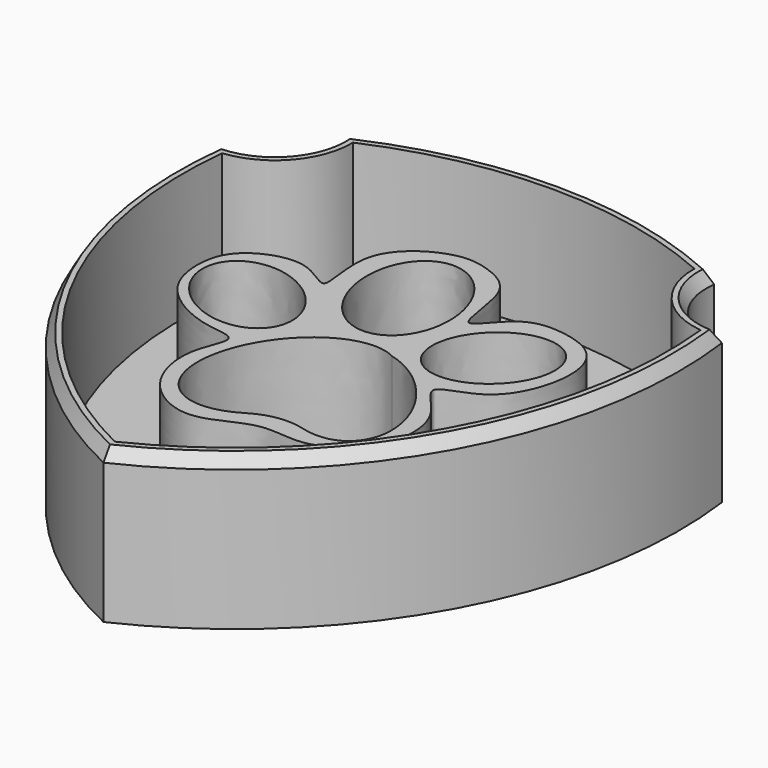
from build123d import *

# Parameters (mm, degrees)
F1_DEPTH = 2
F3_DEPTH = 12
F6_DEPTH = 9
F7_DEPTH = 12.001
F8_SIZE2 = 1
F8_SIZE  = 0.5773502692


with BuildPart() as f1:
    # F0 (on Top) → F1 (new body)
    with BuildSketch(Plane.XY):
        with BuildLine():
            ThreePointArc((14.44472, 19.9530012906), (0, 23.1553551694), (-14.44472, 19.9530012906))
            ThreePointArc((-14.44472, 19.9530012906), (-15.6833903413, 15.8391726591), (-19.6531433612, 14.1963241622))
            ThreePointArc((-19.6531433612, 14.1963241622), (-15.6986584186, -7.0290063642), (0, -21.8514464796))
            ThreePointArc((0, -21.8514464796), (15.6986584186, -7.0290063642), (19.6531433612, 14.1963241622))
            ThreePointArc((19.6531433612, 14.1963241622), (15.6833903413, 15.8391726591), (14.44472, 19.9530012906))
        make_face()
    extrude(amount=F1_DEPTH)

    # F2 (on Top) → F3 (join)
    with BuildSketch(Plane.XY):
        with BuildLine():
            ThreePointArc((14.44472, 19.9530012906), (0, 23.1553551694), (-14.44472, 19.9530012906))
            ThreePointArc((-14.44472, 19.9530012906), (-15.6833903413, 15.8391726591), (-19.6531433612, 14.1963241622))
            ThreePointArc((-19.6531433612, 14.1963241622), (-15.6986584186, -7.0290063642), (0, -21.8514464796))
            ThreePointArc((0, -21.8514464796), (15.6986584186, -7.0290063642), (19.6531433612, 14.1963241622))
            ThreePointArc((19.6531433612, 14.1963241622), (15.6833903413, 15.8391726591), (14.44472, 19.9530012906))
        make_face()
        with BuildLine():
            ThreePointArc((-18.7617020616, 13.223861214), (-14.8850578972, 15.2319371646), (-13.3895138752, 19.3336547414))
            ThreePointArc((-13.3895138752, 19.3336547414), (0, 22.1553551694), (13.3895138752, 19.3336547414))
            ThreePointArc((13.3895138752, 19.3336547414), (14.8850578972, 15.2319371646), (18.7617020616, 13.223861214))
            ThreePointArc((18.7617020616, 13.223861214), (14.7308182001, -6.7140542286), (0, -20.7415804559))
            ThreePointArc((0, -20.7415804559), (-14.7308182001, -6.7140542286), (-18.7617020616, 13.223861214))
        make_face(mode=Mode.SUBTRACT)
    extrude(amount=F3_DEPTH)

    # F5 (on Top) → F6 (join)
    with BuildSketch(Plane.XY):
        with BuildLine():
            add(Edge.make_bspline(
                [(-6.7115966231, 8.1566404551), (-6.9835841304, 7.9270017503), (-9.1275938931, 10.1107655472), (-13.5372207028, 8.5079423879), (-14.5506186802, 5.6470626632), (-13.89810107, 1.6100360147), (-9.3829281793, -0.8860884885), (-5.8754325197, -0.7095108275), (-7.9507006898, -4.0048680625), (-6.8872768223, -8.8092839367), (-2.8823406527, -11.0773918212), (-0.0825531241, -9.9589842361), (2.4233480331, -8.7150787457), (5.8288621164, -9.6831674329), (10.0097546142, -6.6989306151), (10.176976301, -1.3228389012), (5.8954222171, 1.712343473), (11.2409949396, 2.2736279502), (13.1542089804, 7.9042583853), (11.9337579017, 11.303490127), (8.8330621471, 12.3470063399), (5.507933066, 12.2636345965), (2.9501346129, 7.8230945562), (3.0445763313, 14.409749348), (0.0376081351, 15.9673688295), (-2.8824234452, 16.5448510217), (-8.0125455416, 13.3806396334), (-6.3530295656, 8.4593781634), (-6.7115966231, 8.1566404551)],
                knots=[0, 0, 0, 0, 0.0323476454, 0.074100405, 0.1079105993, 0.1469346095, 0.1925335002, 0.2239559671, 0.2573208659, 0.3015220511, 0.3423975551, 0.3763882063, 0.409484886, 0.4461219232, 0.4891716914, 0.5342833086, 0.5712865284, 0.608372727, 0.6561875573, 0.6926324682, 0.7275950876, 0.7645705216, 0.7987034949, 0.8404562628, 0.8767844243, 0.9110229746, 0.9573553942, 1, 1, 1, 1], degree=3))
        make_face()
    extrude(amount=F6_DEPTH)

    # F4 (on Top) → F7 (cut, through all)
    with BuildSketch(Plane.XY):
        with BuildLine():
            add(Edge.make_bspline(
                [(-5.5554294959, 1.6400667373), (-2.4238035473, 6.6778988801), (-9.8230006368, 7.7851411533), (-17.2221977264, 8.8923834264), (-12.9546265854, 2.7473090105), (-8.6870554444, -3.3977654055), (-5.5554294959, 1.6400667373)],
                knots=[0, 0, 0, 2.0943951024, 2.0943951024, 4.1887902048, 4.1887902048, 6.2831853072, 6.2831853072, 6.2831853072], degree=2, weights=[1, 0.5, 1, 0.5, 1, 0.5, 1]))
        make_face()
        with BuildLine():
            add(Edge.make_bspline(
                [(-0.3001281584, 4.7932476737), (6.0113443508, 6.2396273244), (1.1213579729, 13.0840716066), (-3.7686284049, 19.9285158888), (-5.1901145363, 11.6376919559), (-6.6116006676, 3.346868023), (-0.3001281584, 4.7932476737)],
                knots=[0, 0, 0, 2.0943951024, 2.0943951024, 4.1887902048, 4.1887902048, 6.2831853072, 6.2831853072, 6.2831853072], degree=2, weights=[1, 0.5, 1, 0.5, 1, 0.5, 1]))
        make_face()
        with BuildLine():
            add(Edge.make_bspline(
                [(10.7360053807, 10.048548691), (6.5692821692, 14.2152725179), (3.9228720212, 7.4021395491), (1.2764618732, 0.5890065804), (8.0895952328, 3.2354157222), (14.9027285923, 5.8818248641), (10.7360053807, 10.048548691)],
                knots=[0, 0, 0, 2.0943951024, 2.0943951024, 4.1887902048, 4.1887902048, 6.2831853072, 6.2831853072, 6.2831853072], degree=2, weights=[1, 0.5, 1, 0.5, 1, 0.5, 1]))
        make_face()
        with BuildLine():
            add(Edge.make_bspline(
                [(4.2887170378, -7.6856302203), (9.5022427451, -9.1130478495), (8.6242888195, -3.5931010665), (7.746334894, 1.9268457165), (2.5540853666, 3.2204939332)],
                knots=[5.5334441237, 5.5334441237, 5.5334441237, 7.1163576584, 7.1163576584, 8.6992711932, 8.6992711932, 8.6992711932], degree=2, weights=[1, 0.7028097497, 1, 0.7028097497, 1]))
            add(Edge.make_bspline(
                [(2.5540853666, 3.2204939332), (-4.1600085224, 6.7018284974), (-6.1048679527, -3.3709893524), (-8.0497273829, -13.4438072023), (0.3382447849, -8.2557897595)],
                knots=[0.0466363289, 0.0466363289, 0.0466363289, 2.0622954143, 2.0622954143, 4.0779544997, 4.0779544997, 4.0779544997], degree=2, weights=[1, 0.5336974795, 1, 0.5336974795, 1]))
            ThreePointArc((0.3382447865, -8.2557897585), (2.2541207546, -7.5594204523), (4.2887170365, -7.6856302199))
        make_face()
    extrude(amount=F7_DEPTH, mode=Mode.SUBTRACT)

    # F8
    f8_edges = [f1.edges().sort_by_distance(p)[0] for p in [
        (-15.698658, -7.029006, 12),
        (-15.68339, 15.839173, 12),
        (0, 23.155355, 12),
        (15.68339, 15.839173, 12),
        (15.698658, -7.029006, 12),
    ]]
    f8_side = f1.faces().sort_by_distance((15.170569, -6.741094, 12))[0]
    chamfer(f8_edges, length=F8_SIZE, length2=F8_SIZE2, reference=f8_side)


solid = f1.part
